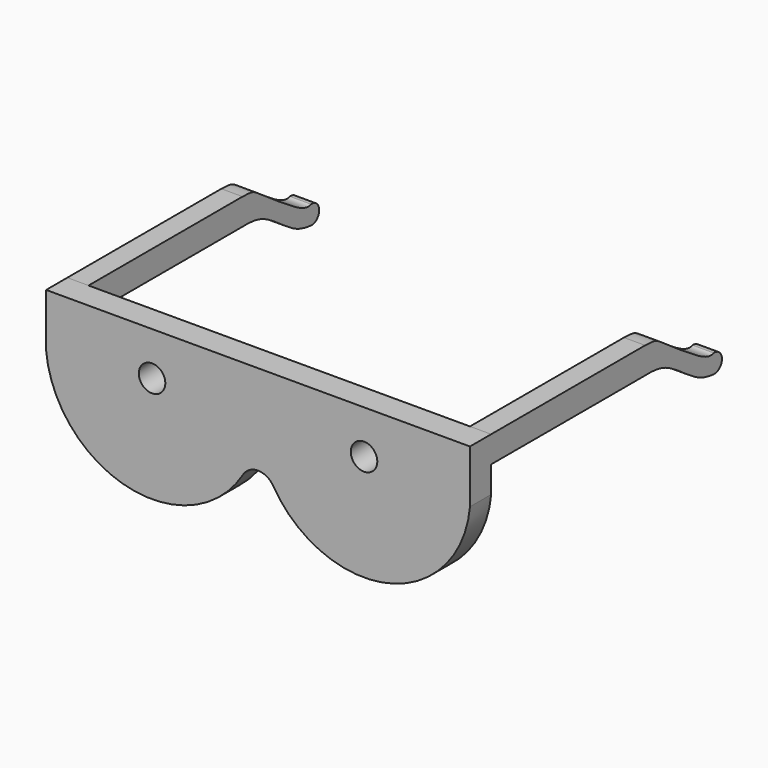
from build123d import *

# Parameters (mm, degrees)
F1_DEPTH = 6.35
F3_DEPTH = 5.08
F6_D     = 6.35


with BuildPart() as f1:
    # F0 (on Front) → F1 (new body)
    with BuildSketch(Plane.XZ):
        with BuildLine():
            Line((-50.789758563, 12.7), (-50.8, 0))
            ThreePointArc((-50.8, 0), (-31.1513127772, -22.5475967725), (-3.5936811473, -10.9268408269))
            ThreePointArc((-3.5936811473, -10.9268408269), (0, -8.9034761257), (3.5936811473, -10.9268408269))
            ThreePointArc((3.5936811473, -10.9268408269), (31.1513127772, -22.5475967725), (50.8, 0))
            Line((50.8, 0), (50.789758563, 12.7))
            Line((50.789758563, 12.7), (0, 12.7))
            Line((0, 12.7), (-50.789758563, 12.7))
        make_face()
    extrude(amount=F1_DEPTH)

    # F2 (on face) → F3 (join)
    with BuildSketch(Plane(origin=(50.7999669647, 0, 0.0409657212), x_dir=(0, 1, 0), z_dir=(0.9999996748, 0, 0.0008064121))):
        with BuildLine():
            Line((46.1317837944, 12.6590383949), (0, 12.6590383949))
            Line((0, 12.6590383949), (0, 6.3090363302))
            Line((0, 6.3090363302), (43.3671333809, 6.3090363302))
            add(Edge.make_bspline(
                [(43.3671333809, 6.3090363302), (47.8048958927, 6.4029112237), (52.3956002369, 6.5378512338), (60.8254648697, -0.5707092536), (64.4781213146, -1.5761370426), (66.6516050696, -1.7843674764)],
                knots=[0, 0, 0, 0, 0.3549617082, 0.7163958478, 1, 1, 1, 1], degree=3))
            ThreePointArc((66.6516050696, -1.7843674764), (69.1195081439, 0.4583984006), (66.6516050696, 2.7011642776))
            add(Edge.make_bspline(
                [(46.1317837944, 12.6590383949), (49.0594556176, 12.5911172202), (50.0191314518, 12.0839436725), (60.2418071998, 4.8232645807), (65.3014332056, 2.1007801406), (66.6516050696, 2.7011642776)],
                knots=[0, 0, 0, 0, 0.2660253484, 0.6885067526, 1, 1, 1, 1], degree=3))
        make_face()
    extrude(amount=-F3_DEPTH)

    # F4: F1 across plane


with BuildPart() as f1_1:
    add(f1.part)
    add(f1.part.mirror(Plane.YZ))

    # F6 (through all)
    with Locations(Plane(origin=(0, 0, 0), x_dir=(1, 0, 0), z_dir=(0, 1, 0))):
        with Locations((25.4, -2.2993200155), (-25.4, -2.2993200155)):
            Hole(F6_D / 2)


solid = f1_1.part
